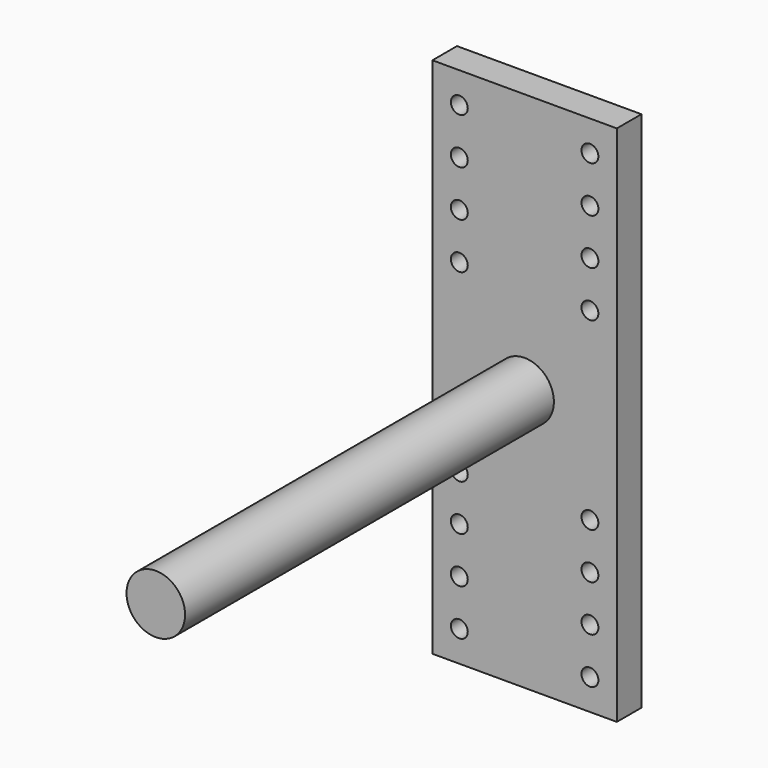
from build123d import *

# Parameters (mm, degrees)
F0_W     = 120
F0_H     = 340
F0_R     = 5.5
F1_DEPTH = 20
F2_R     = 19.05
F3_DEPTH = 300


with BuildPart() as f1:
    # F0 (on Front) → F1 (new body)
    with BuildSketch(Plane.XZ):
        Rectangle(F0_W, F0_H)
        with Locations((-42.5, -150)):
            Circle(F0_R, mode=Mode.SUBTRACT)
        with Locations((-42.5, -120)):
            Circle(F0_R, mode=Mode.SUBTRACT)
        with Locations((-42.5, -90)):
            Circle(F0_R, mode=Mode.SUBTRACT)
        with Locations((-42.5, -60)):
            Circle(F0_R, mode=Mode.SUBTRACT)
        with Locations((42.5, -150)):
            Circle(F0_R, mode=Mode.SUBTRACT)
        with Locations((42.5, -120)):
            Circle(F0_R, mode=Mode.SUBTRACT)
        with Locations((42.5, -90)):
            Circle(F0_R, mode=Mode.SUBTRACT)
        with Locations((42.5, -60)):
            Circle(F0_R, mode=Mode.SUBTRACT)
        with Locations((-42.5, 60)):
            Circle(F0_R, mode=Mode.SUBTRACT)
        with Locations((-42.5, 90)):
            Circle(F0_R, mode=Mode.SUBTRACT)
        with Locations((-42.5, 120)):
            Circle(F0_R, mode=Mode.SUBTRACT)
        with Locations((-42.5, 150)):
            Circle(F0_R, mode=Mode.SUBTRACT)
        with Locations((42.5, 60)):
            Circle(F0_R, mode=Mode.SUBTRACT)
        with Locations((42.5, 90)):
            Circle(F0_R, mode=Mode.SUBTRACT)
        with Locations((42.5, 120)):
            Circle(F0_R, mode=Mode.SUBTRACT)
        with Locations((42.5, 150)):
            Circle(F0_R, mode=Mode.SUBTRACT)
    extrude(amount=F1_DEPTH)

    # F2 (on face) → F3 (join)
    with BuildSketch(Plane.XZ.offset(20)):
        Circle(F2_R)
    extrude(amount=F3_DEPTH)


solid = f1.part
